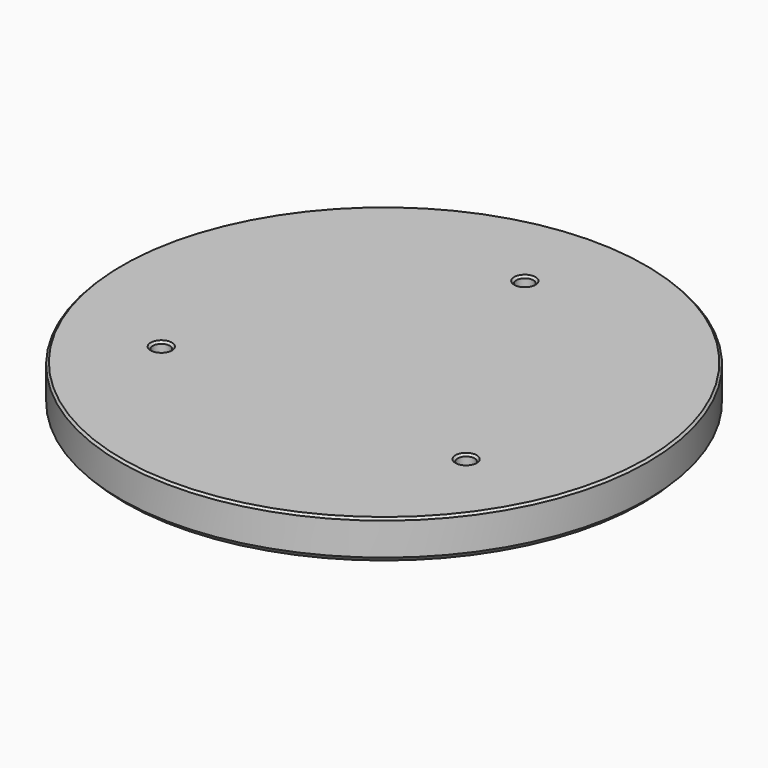
from build123d import *

# Parameters (mm, degrees)
SKETCH075_R     = 49.5
SKETCH075_R_2   = 1.6
PAD039_DEPTH    = 7.5
SKETCH076_R     = 19
SKETCH076_R_2   = 6
POCKET036_DEPTH = 2.5
CHAMFER012_SIZE = 1
CHAMFER013_SIZE = 0.4


with BuildPart() as part:
    # Sketch075 → Pad039 (new body)
    with BuildSketch(Plane.XY):
        Circle(SKETCH075_R)
        with Locations((0, 33)):
            Circle(SKETCH075_R_2, mode=Mode.SUBTRACT)
        with Locations((28.578838, -16.5)):
            Circle(SKETCH075_R_2, mode=Mode.SUBTRACT)
        with Locations((-28.578838, -16.5)):
            Circle(SKETCH075_R_2, mode=Mode.SUBTRACT)
    extrude(amount=-PAD039_DEPTH)

    # Sketch076 (on Face6 of Pad039) → Pocket036 (cut)
    with BuildSketch(Plane(origin=(0, 0, -7.5), x_dir=(1, 0, 0), z_dir=(0, 0, -1))):
        Circle(SKETCH076_R)
        with Locations((28.578838, 16.5)):
            Circle(SKETCH076_R_2)
        with Locations((0, -33)):
            Circle(SKETCH076_R_2)
        with Locations((-28.578838, 16.5)):
            Circle(SKETCH076_R_2)
    extrude(amount=-POCKET036_DEPTH, mode=Mode.SUBTRACT)

    # Chamfer012
    chamfer012_edges = [part.edges().sort_by_distance(p)[0] for p in [
        (-19, 0, -7.5),
        (22.578838, -16.5, -7.5),
        (-34.578838, -16.5, -7.5),
        (-6, 33, -7.5),
        (-49.5, 0, -7.5),
    ]]
    chamfer(chamfer012_edges, length=CHAMFER012_SIZE)

    # Chamfer013
    chamfer013_edges = [part.edges().sort_by_distance(p)[0] for p in [
        (26.978838, -16.5, -5),
        (-1.6, 33, -5),
        (-1.6, 33, 0),
        (26.978838, -16.5, 0),
        (-30.178838, -16.5, -5),
        (-30.178838, -16.5, 0),
        (-49.5, 0, 0),
    ]]
    chamfer(chamfer013_edges, length=CHAMFER013_SIZE)


with BuildPart() as part_1:
    # Body033 placement: moved
    add(part.part.moved(Location((0, 0, 92))))


solid = part_1.part
